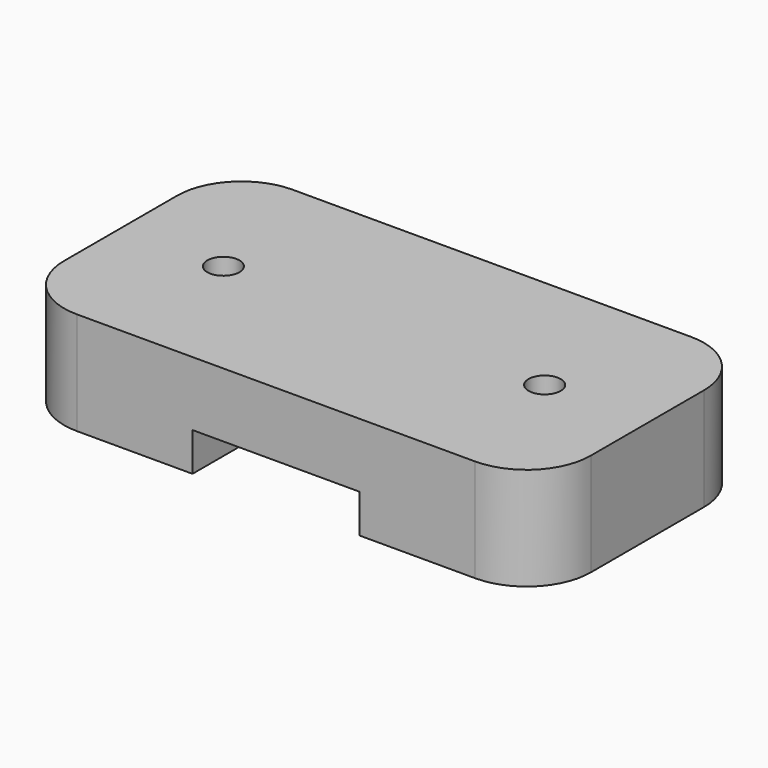
from build123d import *

# Parameters (mm, degrees)
F2_DEPTH      = 6.5
F2_DEPTH_BACK = 1.5
F3_W          = 2
F3_H          = 5.2
F4_DEPTH      = 5.95
F5_W          = 13
F5_H          = 3
F6_DEPTH      = 12.5
F7_R          = 1.25
F8_DEPTH      = 10


with BuildPart() as f2:
    # F1 (on Top) → F2 (new body, two sides)
    with BuildSketch(Plane.XY) as f2_sk:
        with BuildLine():
            ThreePointArc((20.5, 5.5), (19.0355339059, 9.0355339059), (15.5, 10.5))
            Line((15.5, 10.5), (-15.5, 10.5))
            ThreePointArc((-15.5, 10.5), (-19.0355339059, 9.0355339059), (-20.5, 5.5))
            Line((-20.5, 5.5), (-20.5, -5.5))
            ThreePointArc((-20.5, -5.5), (-19.0355339059, -9.0355339059), (-15.5, -10.5))
            Line((-15.5, -10.5), (15.5, -10.5))
            ThreePointArc((15.5, -10.5), (19.0355339059, -9.0355339059), (20.5, -5.5))
            Line((20.5, -5.5), (20.5, 5.5))
        make_face()
    extrude(amount=F2_DEPTH)
    extrude(f2_sk.sketch, amount=-F2_DEPTH_BACK)

    # F3 (on Front) → F4 (cut, symmetric)
    with BuildSketch(Plane.XZ):
        with BuildLine():
            ThreePointArc((3.6728735344, -2.6), (4.2882357039, -1.3641974005), (4.5, 0))
            ThreePointArc((4.5, 0), (4.2882357039, 1.3641974005), (3.6728735344, 2.6))
            Line((3.6728735344, 2.6), (-3.6728735344, 2.6))
            ThreePointArc((-3.6728735344, 2.6), (-4.5, 0), (-3.6728735344, -2.6))
            Line((-3.6728735344, -2.6), (3.6728735344, -2.6))
        make_face()
        with BuildLine():
            ThreePointArc((3.6728735344, 2.6), (4.2882357039, 1.3641974005), (4.5, 0))
            ThreePointArc((4.5, 0), (4.2882357039, -1.3641974005), (3.6728735344, -2.6))
            Line((3.6728735344, -2.6), (8, -2.6))
            Line((8, -2.6), (8, 2.6))
            Line((8, 2.6), (3.6728735344, 2.6))
        make_face()
        with BuildLine():
            Line((-3.6728735344, 2.6), (3.6728735344, 2.6))
            ThreePointArc((3.6728735344, 2.6), (0, 4.5), (-3.6728735344, 2.6))
        make_face()
        with BuildLine():
            ThreePointArc((-3.6728735344, -2.6), (0, -4.5), (3.6728735344, -2.6))
            Line((3.6728735344, -2.6), (-3.6728735344, -2.6))
        make_face()
        with BuildLine():
            ThreePointArc((-3.6728735344, -2.6), (-4.5, 0), (-3.6728735344, 2.6))
            Line((-3.6728735344, 2.6), (-8, 2.6))
            Line((-8, 2.6), (-8, -2.6))
            Line((-8, -2.6), (-3.6728735344, -2.6))
        make_face()
        with Locations((-9, 0)):
            Rectangle(F3_W, F3_H)
    extrude(amount=F4_DEPTH, both=True, mode=Mode.SUBTRACT)

    # F5 (on Front) → F6 (cut, symmetric)
    with BuildSketch(Plane.XZ):
        Rectangle(F5_W, F5_H)
    extrude(amount=F6_DEPTH, both=True, mode=Mode.SUBTRACT)

    # F7 (on face) → F8 (cut)
    with BuildSketch(Plane(origin=(0, 0, -1.5), x_dir=(1, 0, 0), z_dir=(0, 0, -1))):
        with Locations((-12.5, 0)):
            Circle(F7_R)
        with Locations((12.5, 0)):
            Circle(F7_R)
    extrude(amount=-F8_DEPTH, mode=Mode.SUBTRACT)


solid = f2.part
